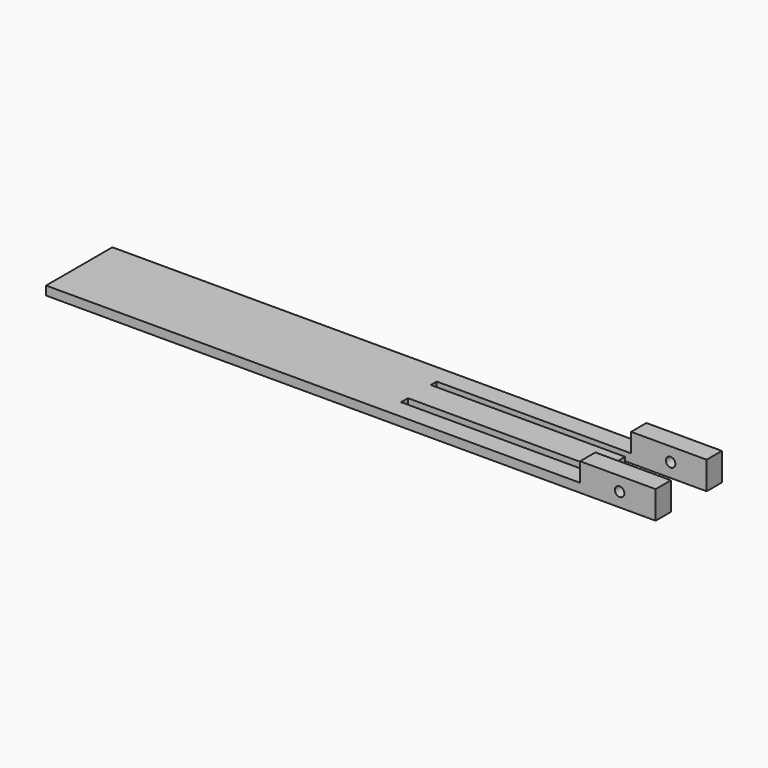
from build123d import *

# Parameters (mm, degrees)
F1_DEPTH = 2.8
F2_DEPTH = 42.8
F3_DEPTH = 1.439
F4_DEPTH = 85.376
F5_W     = 23.89
F5_H     = 6.0450145833
F5_H_2   = 6.0446187854
F6_DEPTH = 6
F7_R     = 1.5
F8_DEPTH = 27.5
F9_DEPTH = 23.89


with BuildPart() as f1:
    # F0 (on Top) → F1 (new body)
    with BuildSketch(Plane.XY):
        Polygon((-75.0034600496, -12.3867541552), (75.0034600496, -12.3867541552), (75.0034600496, -6.3421353698), (-10.3727839887, -6.3421353698), (-10.3727839887, -3.5960208625), (75.0034600496, -3.5960208625), (75.0034600496, 5.426927004), (-10.3727839887, 5.426927004), (-10.3727839887, 7.7807395719), (75.0034600496, 7.7807395719), (75.0034600496, 12.3867541552), (-75.0034600496, 12.3867541552), align=None)
    extrude(amount=F1_DEPTH)

    # F2 (add): a face of the model
    f2_faces = [f1.faces().sort_by_distance(p)[0] for p in [
        (-75.0034600496, 0, 1.4),
    ]]
    extrude(f2_faces, amount=F2_DEPTH)

    # F3 (add): a face of the model
    f3_faces = [f1.faces().sort_by_distance(p)[0] for p in [
        (-21.4, 12.3867541552, 1.4),
    ]]
    extrude(f3_faces, amount=F3_DEPTH)

    # F4 (cut): a face of the model
    f4_faces = [f1.faces().sort_by_distance(p)[0] for p in [
        (-21.4, 13.8257541552, 1.4),
    ]]
    extrude(f4_faces, amount=F4_DEPTH, mode=Mode.SUBTRACT)

    # F5 (on face) → F6 (join)
    with BuildSketch(Plane.XY.offset(2.8)):
        with Locations((63.0584600496, 10.8032468635)):
            Rectangle(F5_W, F5_H)
        with Locations((63.0584600496, -9.3644447625)):
            Rectangle(F5_W, F5_H_2)
    extrude(amount=F6_DEPTH)

    # F7 (on face) → F8 (cut)
    with BuildSketch(Plane.XZ.offset(12.3867541552)):
        with Locations((63.6097000496, 4.4)):
            Circle(F7_R)
    extrude(amount=-F8_DEPTH, mode=Mode.SUBTRACT)

    # F9 (cut): a face of the model
    f9_faces = [f1.faces().sort_by_distance(p)[0] for p in [
        (75.0034600496, 0.9154530708, 1.4),
    ]]
    extrude(f9_faces, amount=-F9_DEPTH, mode=Mode.SUBTRACT)


solid = f1.part
